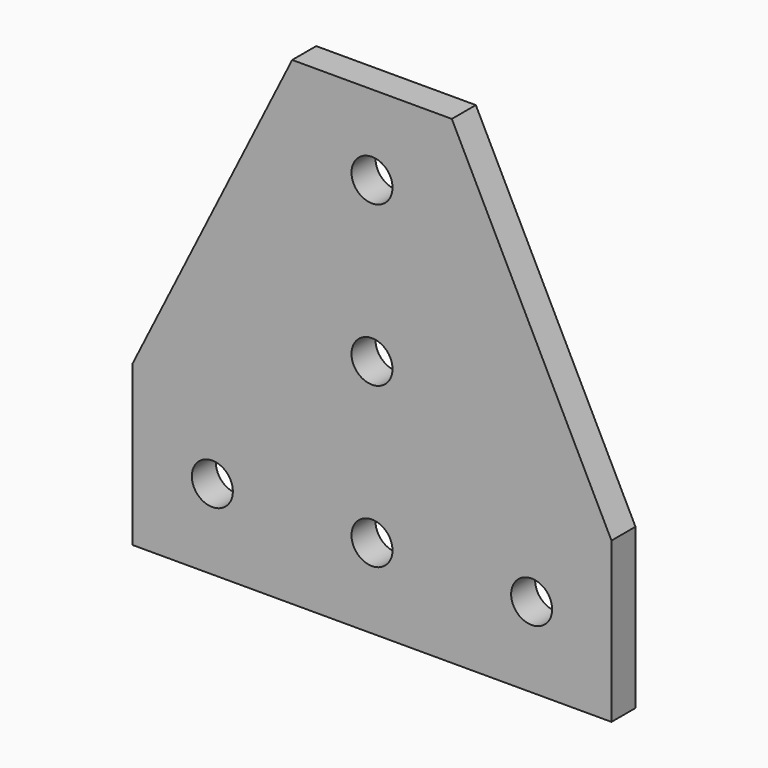
from build123d import *

# Parameters (mm, degrees)
F0_R     = 3.2639
F1_DEPTH = 4.7752


with BuildPart() as f1:
    # F0 (on Front) → F1 (new body)
    with BuildSketch(Plane.XZ):
        Polygon((-12.7, -38.1), (12.7, -38.1), (38.1, -38.1), (38.1, -12.7), (12.7, 38.1), (-12.7, 38.1), (-38.1, -12.7), (-38.1, -38.1), align=None)
        with Locations((-25.4, -25.4)):
            Circle(F0_R, mode=Mode.SUBTRACT)
        with Locations((0, -25.4)):
            Circle(F0_R, mode=Mode.SUBTRACT)
        Circle(F0_R, mode=Mode.SUBTRACT)
        with Locations((25.4, -25.4)):
            Circle(F0_R, mode=Mode.SUBTRACT)
        with Locations((0, 25.4)):
            Circle(F0_R, mode=Mode.SUBTRACT)
    extrude(amount=F1_DEPTH)


solid = f1.part
